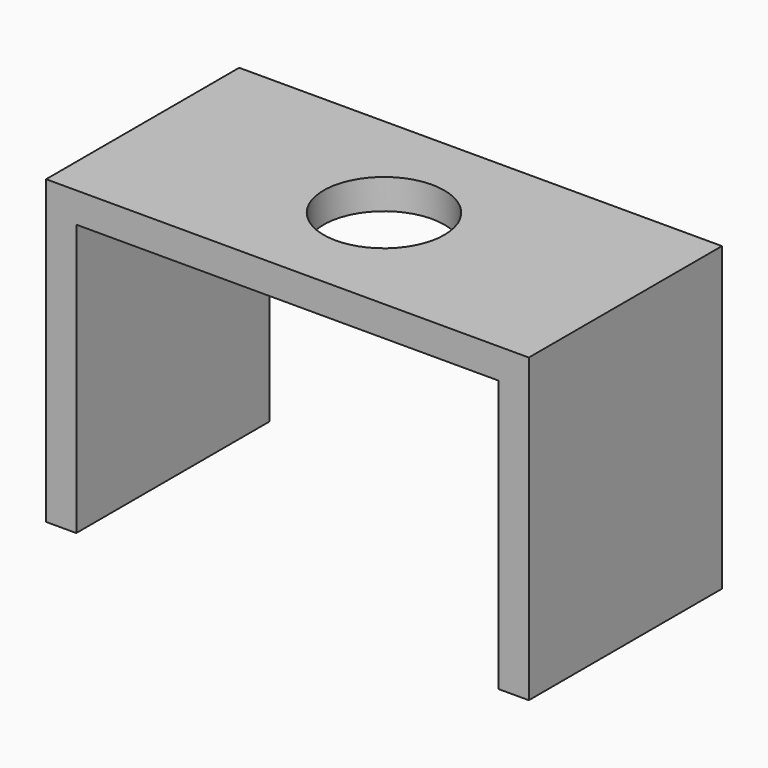
from build123d import *

# Parameters (mm, degrees)
F1_DEPTH = 25.4
F2_R     = 6.35
F3_DEPTH = 25.4
F4_R     = 0.79375
F6_DEPTH = 25.4
F5_R     = 0.79375
F7_DEPTH = 25.4


with BuildPart() as f1:
    # F0 (on Front) → F1 (new body)
    with BuildSketch(Plane.XZ):
        Polygon((-13.930467, 28.698625), (-13.930467, -3.051375), (-10.755467, -3.051375), (-10.755467, 25.523625), (33.694533, 25.523625), (33.694533, -3.051375), (36.869533, -3.051375), (36.869533, 28.698625), align=None)
    extrude(amount=F1_DEPTH)

    # F2 (on face) → F3 (cut)
    with BuildSketch(Plane.XY.offset(28.698625)):
        with Locations((11.469533, -12.7)):
            Circle(F2_R)
    extrude(amount=-F3_DEPTH, mode=Mode.SUBTRACT)

    # F4 (on face) → F6 (cut)
    with BuildSketch(Plane(origin=(0, 0, -3.051375), x_dir=(1, 0, 0), z_dir=(0, 0, -1))):
        with Locations((-12.342967, 19.05)):
            Circle(F4_R)
        with Locations((-12.342967, 6.35)):
            Circle(F4_R)
    extrude(amount=-F6_DEPTH, mode=Mode.SUBTRACT)

    # F5 (on face) → F7 (cut)
    with BuildSketch(Plane(origin=(0, 0, -3.051375), x_dir=(1, 0, 0), z_dir=(0, 0, -1))):
        with Locations((35.269333, 19.05)):
            Circle(F5_R)
        with Locations((35.269333, 6.349987)):
            Circle(F5_R)
    extrude(amount=-F7_DEPTH, mode=Mode.SUBTRACT)


solid = f1.part
